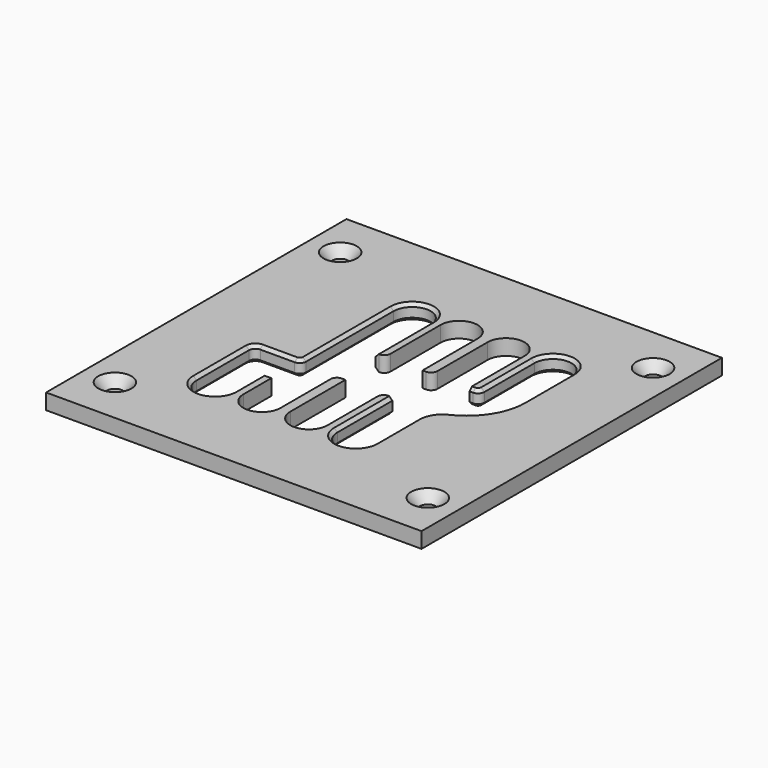
from build123d import *

# Parameters (mm, degrees)
F0_W           = 152.4
F0_H           = 152.4
F1_DEPTH       = 6.35
F3_DEPTH       = 6.351
F4_R           = 2.54
F5_SIZE        = 1.27
F7_D           = 6.5278
F7_CSINK_D     = 13.4874
F7_CSINK_ANGLE = 82


with BuildPart() as f1:
    # F0 (on Top) → F1 (new body)
    with BuildSketch(Plane.XY):
        Rectangle(F0_W, F0_H)
    extrude(amount=F1_DEPTH)

    # F2 (on face) → F3 (cut, through all)
    with BuildSketch(Plane.XY.offset(6.35)):
        with BuildLine():
            Line((7.529644, 10.16), (7.529644, 38.1))
            ThreePointArc((7.529644, 38.1), (0, 45.629644), (-7.529644, 38.1))
            Line((-7.529644, 38.1), (-7.529644, 10.16))
            Line((-7.529644, 10.16), (-11.520356, 10.16))
            Line((-11.520356, 10.16), (-11.520356, 38.1))
            ThreePointArc((-11.520356, 38.1), (-19.05, 45.629644), (-26.579644, 38.1))
            Line((-26.579644, 38.1), (-26.579644, 0))
            Line((-26.579644, 0), (-26.579644, -8.89))
            Line((-26.579644, -8.89), (-45.629644, -8.89))
            Line((-45.629644, -8.89), (-45.629644, -38.1))
            ThreePointArc((-45.629644, -38.1), (-38.1, -45.629644), (-30.570356, -38.1))
            Line((-30.570356, -38.1), (-30.570356, -23.9268))
            Line((-30.570356, -23.9268), (-26.579644, -23.9268))
            Line((-26.579644, -23.9268), (-26.579644, -38.1))
            ThreePointArc((-26.579644, -38.1), (-19.05, -45.629644), (-11.520356, -38.1))
            Line((-11.520356, -38.1), (-11.520356, -10.16))
            Line((-11.520356, -10.16), (-7.529644, -10.16))
            Line((-7.529644, -10.16), (-7.529644, -38.1))
            ThreePointArc((-7.529644, -38.1), (0, -45.629644), (7.529644, -38.1))
            Line((7.529644, -38.1), (7.529644, -10.16))
            Line((7.529644, -10.16), (11.520356, -10.16))
            Line((11.520356, -10.16), (11.520356, -38.1))
            ThreePointArc((11.520356, -38.1), (19.05, -45.629644), (26.579644, -38.1))
            Line((26.579644, -38.1), (26.579644, -16.761795))
            ThreePointArc((26.579644, -16.761795), (28.227842, -11.088573), (32.659292, -7.181625))
            ThreePointArc((32.659292, -7.181625), (42.113371, 1.15348), (45.629644, 13.256762))
            Line((45.629644, 13.256762), (45.629644, 38.1))
            ThreePointArc((45.629644, 38.1), (38.1, 45.629644), (30.570356, 38.1))
            Line((30.570356, 38.1), (30.570356, 10.16))
            Line((30.570356, 10.16), (26.579644, 10.16))
            Line((26.579644, 10.16), (26.579644, 38.1))
            ThreePointArc((26.579644, 38.1), (19.05, 45.629644), (11.520356, 38.1))
            Line((11.520356, 38.1), (11.520356, 10.16))
            Line((11.520356, 10.16), (7.529644, 10.16))
        make_face()
    extrude(amount=-F3_DEPTH, mode=Mode.SUBTRACT)

    # F4
    f4_edges = [f1.edges().sort_by_distance(p)[0] for p in [
        (-7.529644, 10.16, 3.175),
        (-11.520356, -10.16, 3.175),
        (7.529644, -10.16, 3.175),
        (11.520356, 10.16, 3.175),
        (30.570356, 10.16, 3.175),
        (-26.579644, -8.89, 3.175),
        (-45.629644, -8.89, 3.175),
    ]]
    fillet(f4_edges, radius=F4_R)

    # F5
    f5_edges = [f1.edges().sort_by_distance(p)[0] for p in [
        (45.629644, 25.678381, 6.35),
        (30.570356, 25.4, 0),
        (-45.629644, -24.765, 6.35),
        (-30.570356, -31.0134, 0),
    ]]
    chamfer(f5_edges, length=F5_SIZE)

    # F7 (through all)
    with Locations(Plane.XY.offset(6.35)):
        with Locations((-63.5, 57.15), (63.5, 57.15), (63.5, -57.15), (-63.5, -57.15)):
            CounterSinkHole(F7_D / 2, F7_CSINK_D / 2, counter_sink_angle=F7_CSINK_ANGLE)


solid = f1.part
